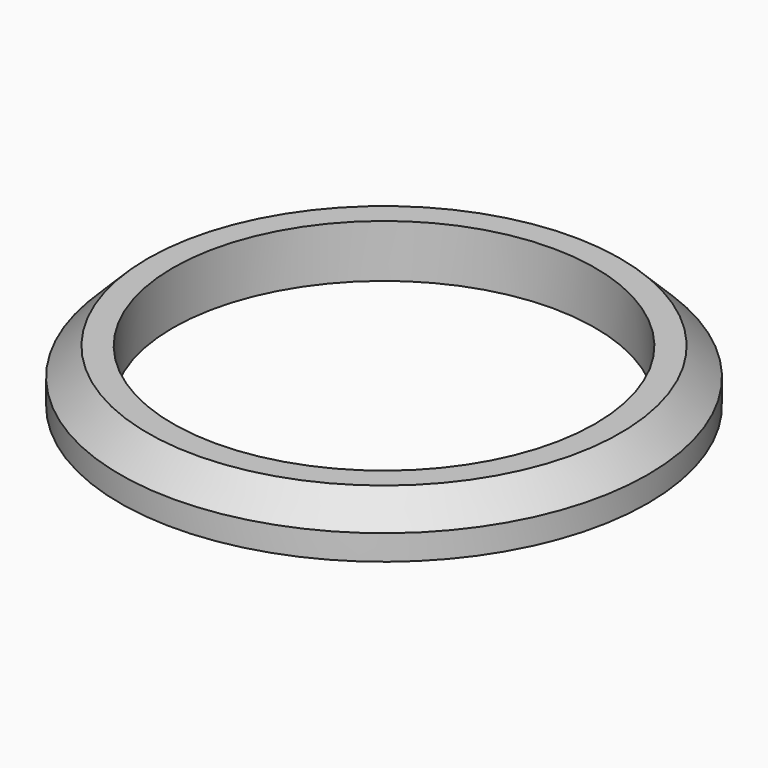
from build123d import *

# Parameters (mm, degrees)
F0_R     = 500
F0_R_2   = 400
F1_DEPTH = 100


with BuildPart() as f1:
    # F0 (on Top) → F1 (new body)
    with BuildSketch(Plane.XY):
        Circle(F0_R)
        Circle(F0_R_2, mode=Mode.SUBTRACT)
    extrude(amount=F1_DEPTH)

    # F2 (on Front) → F3 (revolve, cut)
    with BuildSketch(Plane.XZ):
        Polygon((-547.744101, 0), (-447.744101, 100), (-547.744101, 100), align=None)
    revolve(axis=Axis((0, 0, 117.033899), (0, 0, 1)), mode=Mode.SUBTRACT)


solid = f1.part
